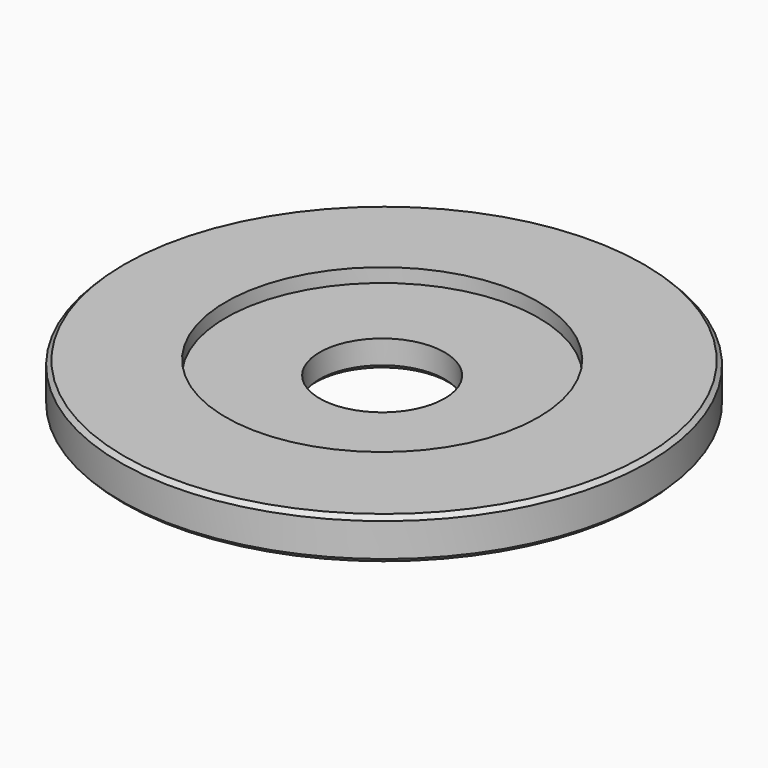
from build123d import *

# Parameters (mm, degrees)
SKETCH043_R     = 19
PAD014_DEPTH    = 3
SKETCH044_R     = 4.5
POCKET030_DEPTH = 3.001
CHAMFER014_SIZE = 0.3
CHAMFER015_SIZE = 0.3
SKETCH057_R     = 11.25
POCKET037_DEPTH = 1


with BuildPart() as part:
    # Sketch043 → Pad014 (new body)
    with BuildSketch(Plane.XY):
        with Locations((0.140173, 0)):
            Circle(SKETCH043_R)
    extrude(amount=PAD014_DEPTH)

    # Sketch044 (on Face2 of Pad014) → Pocket030 (cut, through all)
    with BuildSketch(Plane(origin=(0, 0, 0), x_dir=(1, 0, 0), z_dir=(0, 0, -1))):
        Circle(SKETCH044_R)
    extrude(amount=-POCKET030_DEPTH, mode=Mode.SUBTRACT)

    # Chamfer014
    chamfer014_edges = [part.edges().sort_by_distance(p)[0] for p in [
        (-4.5, 0, 0),
        (-4.5, 0, 3),
    ]]
    chamfer(chamfer014_edges, length=CHAMFER014_SIZE)

    # Chamfer015
    chamfer015_edges = [part.edges().sort_by_distance(p)[0] for p in [
        (-18.859827, 0, 0),
        (-18.859827, 0, 3),
    ]]
    chamfer(chamfer015_edges, length=CHAMFER015_SIZE)

    # Sketch057 (on Face8 of Chamfer015) → Pocket037 (cut)
    with BuildSketch(Plane.XY.offset(3)):
        Circle(SKETCH057_R)
    extrude(amount=-POCKET037_DEPTH, mode=Mode.SUBTRACT)


solid = part.part
